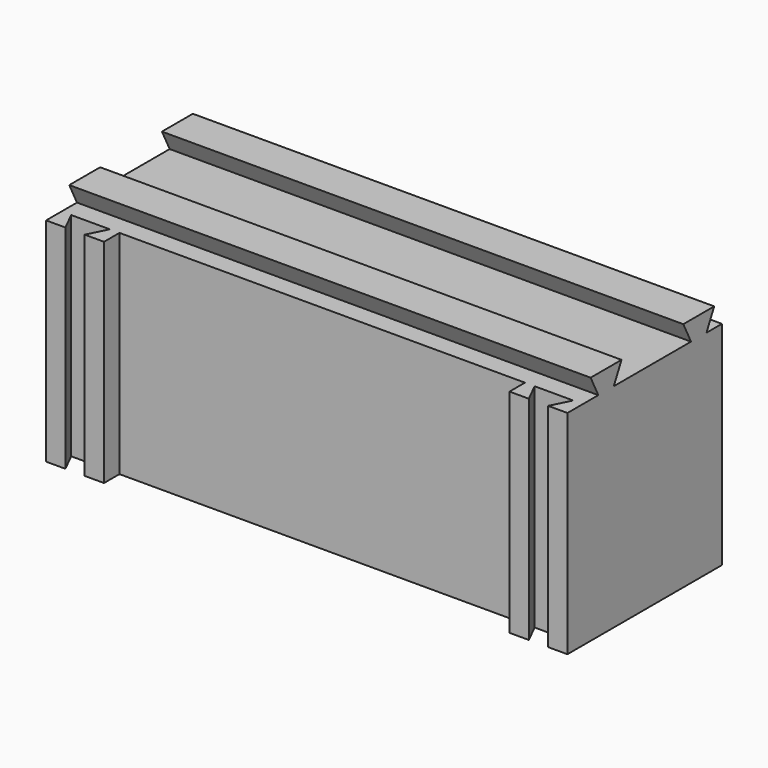
from build123d import *

# Parameters (mm, degrees)
F0_W     = 355.6
F0_H     = 127
F1_DEPTH = 152.4
F2_W     = 266.7
F2_H     = 12.7
F3_DEPTH = 152.4
F4_W     = 12.7
F4_H     = 12.7
F4_H_2   = 6.35
F4_H_3   = 38.1
F5_DEPTH = 152.4
F6_W     = 12.7
F6_H     = 12.7
F6_W_2   = 6.35
F6_W_3   = 38.1
F7_DEPTH = 342.9


with BuildPart() as f1:
    # F0 (on Top) → F1 (new body)
    with BuildSketch(Plane.XY):
        Rectangle(F0_W, F0_H)
    extrude(amount=-F1_DEPTH)

    # F2 (on face) → F3 (cut)
    with BuildSketch(Plane.XY):
        Polygon((152.4, -63.5), (165.1, -63.5), (171.45, -50.8), (146.05, -50.8), align=None)
        with Locations((6.35, -57.15)):
            Rectangle(F2_W, F2_H)
        Polygon((-139.7, -63.5), (-133.35, -50.8), (-158.75, -50.8), (-152.4, -63.5), align=None)
    extrude(amount=-F3_DEPTH, mode=Mode.SUBTRACT)

    # F4 (on face) → F5 (cut)
    with BuildSketch(Plane.XY):
        with Locations((-171.45, -57.15)):
            Rectangle(F4_W, F4_H)
        Polygon((-165.1, 57.15), (-177.8, 57.15), (-177.8, 50.8), align=None)
        with Locations((-171.45, 60.325)):
            Rectangle(F4_W, F4_H_2)
        Polygon((-177.8, 31.75), (-165.1, 31.75), (-177.8, 38.1), align=None)
        with Locations((-171.45, 28.575)):
            Rectangle(F4_W, F4_H_2)
        with Locations((-171.45, -15.875)):
            Rectangle(F4_W, F4_H_2)
        Polygon((-177.8, -25.4), (-165.1, -19.05), (-177.8, -19.05), align=None)
        Polygon((-177.8, -44.45), (-165.1, -44.45), (-177.8, -38.1), align=None)
        with Locations((-171.45, -47.625)):
            Rectangle(F4_W, F4_H_2)
        with Locations((-171.45, 6.35)):
            Rectangle(F4_W, F4_H_3)
        Polygon((-165.1, -44.45), (-165.1, -19.05), (-177.8, -25.4), (-177.8, -38.1), align=None)
        Polygon((-165.1, 31.75), (-165.1, 57.15), (-177.8, 50.8), (-177.8, 38.1), align=None)
    extrude(amount=-F5_DEPTH, mode=Mode.SUBTRACT)

    # F6 (on face) → F7 (cut)
    with BuildSketch(Plane.YZ.offset(177.8)):
        with Locations((-57.15, -6.35)):
            Rectangle(F6_W, F6_H)
        with Locations((-47.625, -6.35)):
            Rectangle(F6_W_2, F6_H)
        Polygon((-38.1, -12.7), (-44.45, 0), (-44.45, -12.7), align=None)
        Polygon((-19.05, -12.7), (-19.05, 0), (-25.4, -12.7), align=None)
        with Locations((-15.875, -6.35)):
            Rectangle(F6_W_2, F6_H)
        with Locations((6.35, -6.35)):
            Rectangle(F6_W_3, F6_H)
        with Locations((28.575, -6.35)):
            Rectangle(F6_W_2, F6_H)
        Polygon((38.1, -12.7), (31.75, 0), (31.75, -12.7), align=None)
        Polygon((57.15, -12.7), (57.15, 0), (50.8, -12.7), align=None)
        with Locations((60.325, -6.35)):
            Rectangle(F6_W_2, F6_H)
    extrude(amount=-F7_DEPTH, mode=Mode.SUBTRACT)


solid = f1.part
